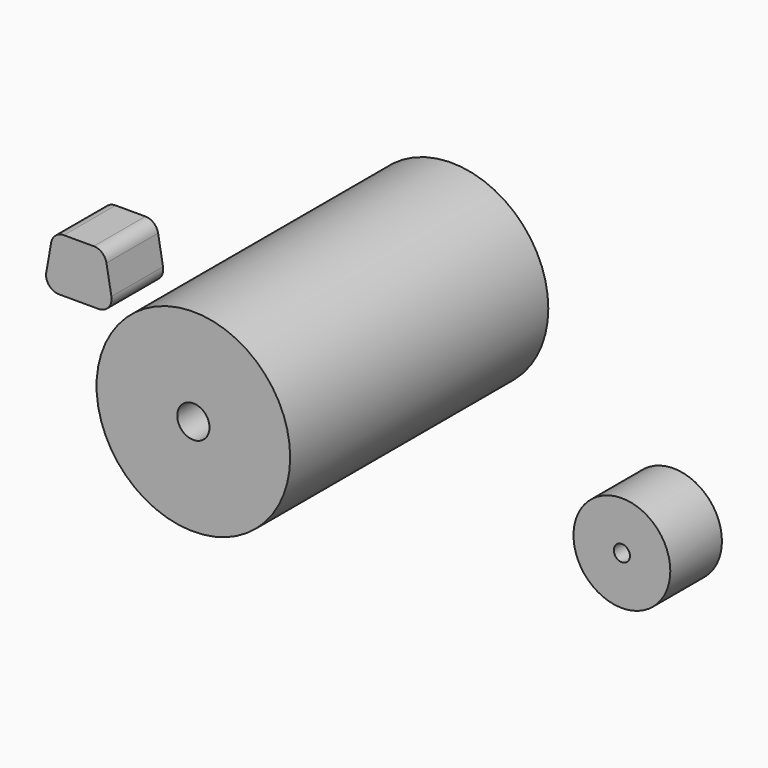
from build123d import *

# Parameters (mm, degrees)
F0_R     = 38.1
F0_R_2   = 6.35
F1_DEPTH = 127
F2_DEPTH = 12.7
F3_R     = 19.05
F3_R_2   = 3.175
F4_DEPTH = 25.4


with BuildPart() as f1:
    # F0 (on Front) → F1 (new body)
    with BuildSketch(Plane.XZ):
        with Locations((-54.015968, 27.100163)):
            Circle(F0_R)
        with Locations((-54.015968, 27.100163)):
            Circle(F0_R_2, mode=Mode.SUBTRACT)
    extrude(amount=F1_DEPTH)

    # F0 (on Front) → F2 (join)
    with BuildSketch(Plane.XZ):
        with Locations((-54.015968, 27.100163)):
            Circle(F0_R)
        with Locations((-54.015968, 27.100163)):
            Circle(F0_R_2, mode=Mode.SUBTRACT)
    extrude(amount=F2_DEPTH)


with BuildPart() as f4:
    # F3 (on Front) → F4 (new body)
    with BuildSketch(Plane.XZ):
        with Locations((33.368226, -31.340323)):
            Circle(F3_R)
        with Locations((33.368226, -31.340323)):
            Circle(F3_R_2, mode=Mode.SUBTRACT)
        with BuildLine():
            Line((-174.493557, 7.395335), (-186.260086, 7.395335))
            ThreePointArc((-186.260086, 7.395335), (-189.525447, 6.206841), (-191.262909, 3.197468))
            Line((-191.262909, 3.197468), (-193.194602, -7.757707))
            ThreePointArc((-193.194602, -7.757707), (-192.083284, -11.905201), (-188.191779, -13.71984))
            Line((-188.191779, -13.71984), (-172.561864, -13.71984))
            ThreePointArc((-172.561864, -13.71984), (-168.670358, -11.905201), (-167.55904, -7.757707))
            Line((-167.55904, -7.757707), (-169.490733, 3.197468))
            ThreePointArc((-169.490733, 3.197468), (-171.228196, 6.206841), (-174.493557, 7.395335))
        make_face()
    extrude(amount=F4_DEPTH)


solid = Compound([f1.part, f4.part])
